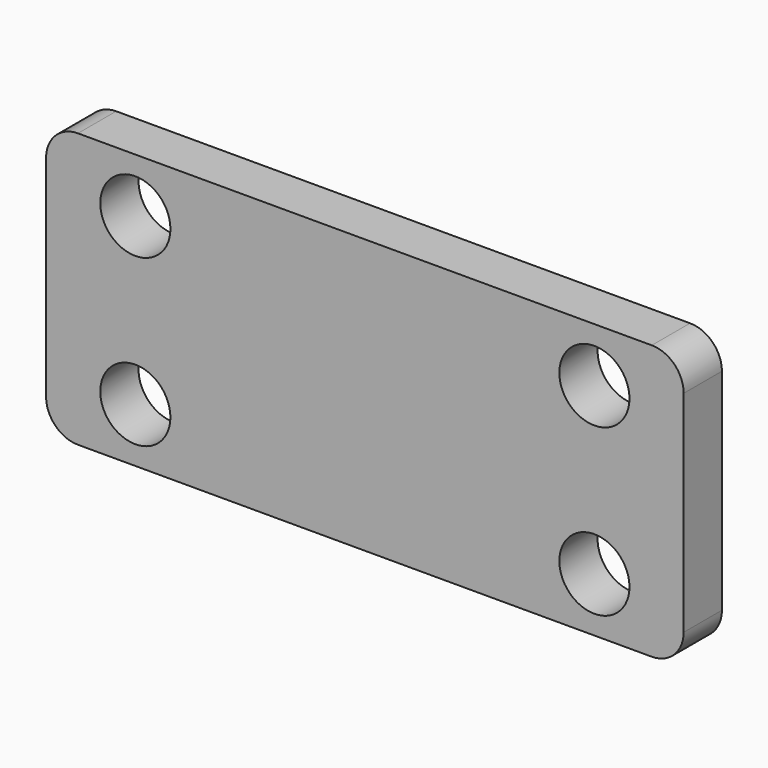
from build123d import *

# Parameters (mm, degrees)
F0_W     = 20
F0_H     = 8.6
F1_DEPTH = 1.5
F2_R     = 1.1
F3_DEPTH = 1.5
F4_R     = 1


with BuildPart() as f1:
    # F0 (on Front) → F1 (new body)
    with BuildSketch(Plane.XZ):
        with Locations((10, 4.3)):
            Rectangle(F0_W, F0_H)
    extrude(amount=F1_DEPTH)

    # F2 (on face) → F3 (cut, through all)
    with BuildSketch(Plane.XZ.offset(1.5)):
        with Locations((2.8, 6.9)):
            Circle(F2_R)
        with Locations((17.2, 6.9)):
            Circle(F2_R)
        with Locations((2.8, 1.7)):
            Circle(F2_R)
        with Locations((17.2, 1.7)):
            Circle(F2_R)
    extrude(amount=-F3_DEPTH, mode=Mode.SUBTRACT)

    # F4
    f4_edges = [f1.edges().sort_by_distance(p)[0] for p in [
        (20, -0.75, 8.6),
        (20, -0.75, 0),
        (0, -0.75, 8.6),
        (0, -0.75, 0),
    ]]
    fillet(f4_edges, radius=F4_R)


solid = f1.part
